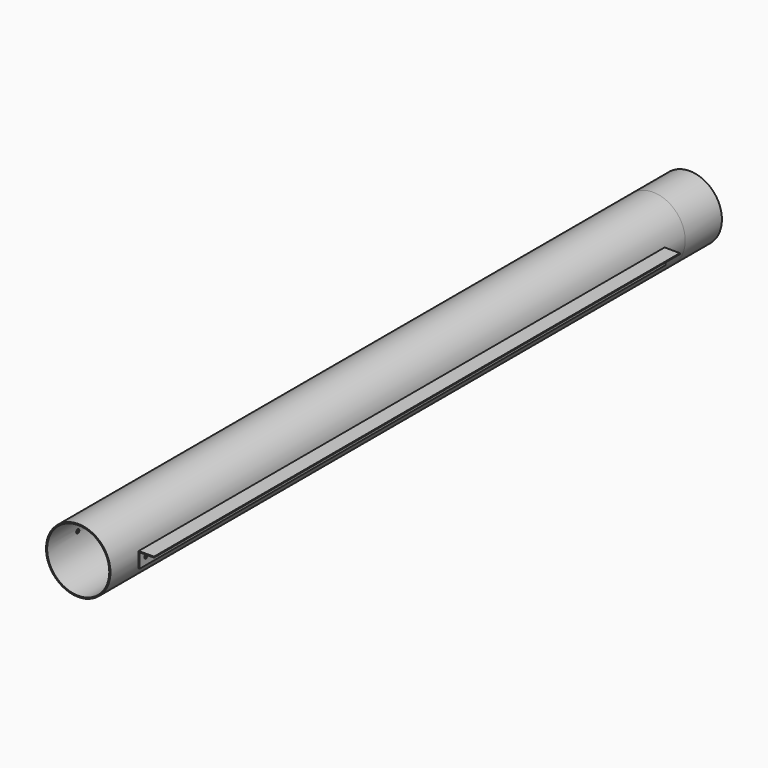
from build123d import *

# Parameters (mm, degrees)
F0_R      = 53.5305
F0_R_2    = 51.6255
F1_DEPTH  = 1193.8
F2_DEPTH  = 76.2
F4_D      = 6.35
F4_DEPTH  = 53.5315
F5_D      = 6.35
F6_D      = 6.35
F6_DEPTH  = 53.5315001
F7_D      = 6.35
F11_DEPTH = 1066.8
F12_DEPTH = 12.7
F13_DEPTH = 12.7
F14_D     = 6.35
F15_D     = 6.35


with BuildPart() as f1:
    # F0 (on Front) → F1 (new body)
    with BuildSketch(Plane.XZ):
        Circle(F0_R)
        Circle(F0_R_2, mode=Mode.SUBTRACT)
    extrude(amount=F1_DEPTH)


with BuildPart() as f2:
    # F2 (new): a face of the model
    f2_faces = [f1.part.faces().sort_by_distance(p)[0] for p in [
        (-52.016428818, 0, 0),
    ]]
    extrude(f2_faces, amount=F2_DEPTH)


with BuildPart() as f1_1:
    add(f1.part)

    # F4 (through all, one way)
    with BuildSketch(Plane.YZ):
        with Locations((-1130.3, 0)):
            Circle(F4_D / 2)
    extrude(amount=-F4_DEPTH, mode=Mode.SUBTRACT)

    # F5 (through all)
    with Locations(Plane(origin=(0, 0, 0), x_dir=(0, 1, 0), z_dir=(-1, 0, 0))):
        with Locations((-1130.3, 0)):
            Hole(F5_D / 2)

    # F6 (through all, one way)
    with BuildSketch(Plane.YZ):
        with Locations((-63.5, 0)):
            Circle(F6_D / 2)
    extrude(amount=-F6_DEPTH, mode=Mode.SUBTRACT)

    # F7 (through all)
    with Locations(Plane(origin=(0, 0, 0), x_dir=(0, 1, 0), z_dir=(-1, 0, 0))):
        with Locations((-63.5, 0)):
            Hole(F7_D / 2)


with BuildPart() as f11:
    # F10 (on line) → F11 (new body, through all)
    with BuildSketch(Plane.XZ.offset(63.5)):
        Polygon((85.2805, 12.7), (59.8805, 12.7), (59.8805, -12.7), (61.468, -12.7), (61.468, 11.1125), (85.2805, 11.1125), align=None)
    extrude(amount=F11_DEPTH)

    # F12 (add): a face of the model
    f12_faces = [f11.faces().sort_by_distance(p)[0] for p in [
        (72.5805, -1130.3, 12.3407897552),
    ]]
    extrude(f12_faces, amount=F12_DEPTH)

    # F13 (add): a face of the model
    f13_faces = [f11.faces().sort_by_distance(p)[0] for p in [
        (72.5805, -63.5, 12.3407897552),
    ]]
    extrude(f13_faces, amount=F13_DEPTH)

    # F14 (through all)
    with Locations(Plane(origin=(0, 0, 0), x_dir=(0, 1, 0), z_dir=(-1, 0, 0))):
        with Locations((-1130.3, 0)):
            Hole(F14_D / 2)

    # F15 (through all)
    with Locations(Plane(origin=(0, 0, 0), x_dir=(0, 1, 0), z_dir=(-1, 0, 0))):
        with Locations((-63.5, 0)):
            Hole(F15_D / 2)


solid = Compound([f2.part, f1_1.part, f11.part])
